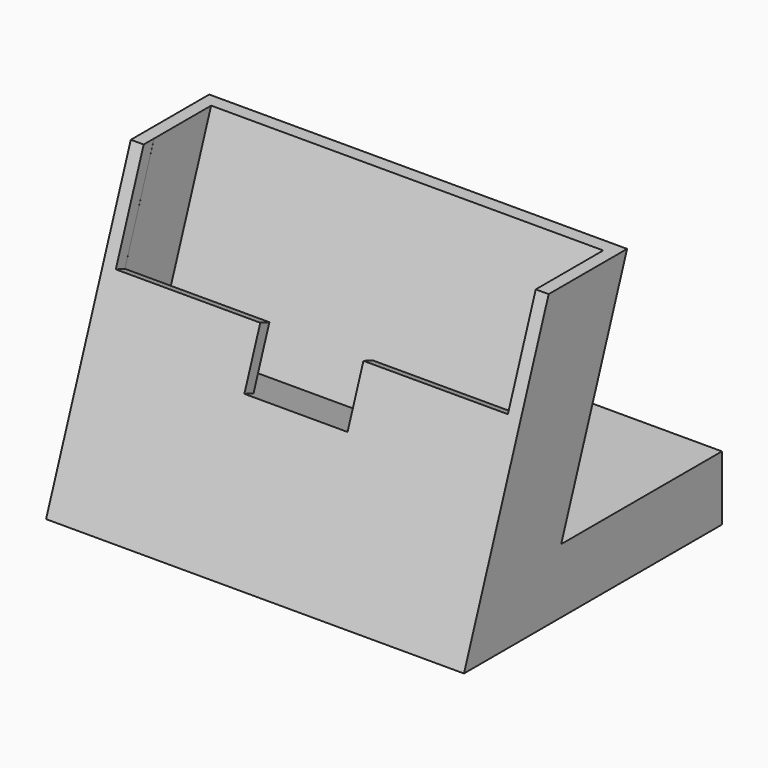
from build123d import *

# Parameters (mm, degrees)
SKETCH_W        = 64.8
SKETCH_H        = 50
PAD_DEPTH       = 50
POCKET_DEPTH    = 64.801
POCKET001_DEPTH = 64.801
POCKET002_DEPTH = 64.801
SKETCH004_W     = 60.8
SKETCH004_H     = 10.4
POCKET003_DEPTH = 30
POCKET004_DEPTH = 18.9853350022
POCKET005_DEPTH = 64.801


with BuildPart() as part:
    # Sketch → Pad (new body)
    with BuildSketch(Plane.XY):
        with Locations((32.4, 25)):
            Rectangle(SKETCH_W, SKETCH_H)
    extrude(amount=PAD_DEPTH)

    # Sketch001 → Pocket (cut, through all)
    with BuildSketch(Plane.YZ.offset(64.8)):
        Polygon((0, 0), (0, 50), (18.1985117133, 50), align=None)
    extrude(amount=-POCKET_DEPTH, mode=Mode.SUBTRACT)

    # Sketch002 → Pocket001 (cut, through all)
    with BuildSketch(Plane.YZ.offset(64.8)):
        Polygon((33.3985117133, 50), (18.8397023427, 10), (50, 10), (50, 50), align=None)
    extrude(amount=-POCKET001_DEPTH, mode=Mode.SUBTRACT)

    # Sketch003 → Pocket002 (cut, through all)
    with BuildSketch(Plane.YZ.offset(64.8)):
        Polygon((18.1985117133, 50), (31.620449481, 45.1148141664), (33.3985117133, 50), align=None)
    extrude(amount=-POCKET002_DEPTH, mode=Mode.SUBTRACT)

    # Sketch004 → Pocket003 (cut)
    with BuildSketch(Plane(origin=(0, 18.1985117133, 50), x_dir=(1, 0, 0), z_dir=(0, 0.3420201433, 0.9396926208))):
        with Locations((32.4, 7.0833278359)):
            Rectangle(SKETCH004_W, SKETCH004_H)
    extrude(amount=-POCKET003_DEPTH, mode=Mode.SUBTRACT)

    # Sketch005 → Pocket004 (cut, through all)
    with BuildSketch(Plane(origin=(0, 1.76974927, -0.6441360564), x_dir=(-1, 0, 0), z_dir=(0, 0.9396926208, -0.3420201433))):
        Polygon((-62.8, 32.2088886238), (-40.4, 32.2088886238), (-40.4, 23.2088886238), (-24.4, 23.2088886238), (-24.4, 32.2088886238), (-2, 32.2088886238), (-1.996389, 63.8506663486), (-62.8, 53.2088886238), align=None)
    extrude(amount=-POCKET004_DEPTH, mode=Mode.SUBTRACT)

    # Sketch006 → Pocket005 (cut, through all)
    with BuildSketch(Plane.YZ.offset(64.8)):
        Polygon((31.620449481, 45.1148141664), (16.420449481, 45.1148141664), (18.1985117133, 50), align=None)
    extrude(amount=-POCKET005_DEPTH, mode=Mode.SUBTRACT)


solid = part.part
